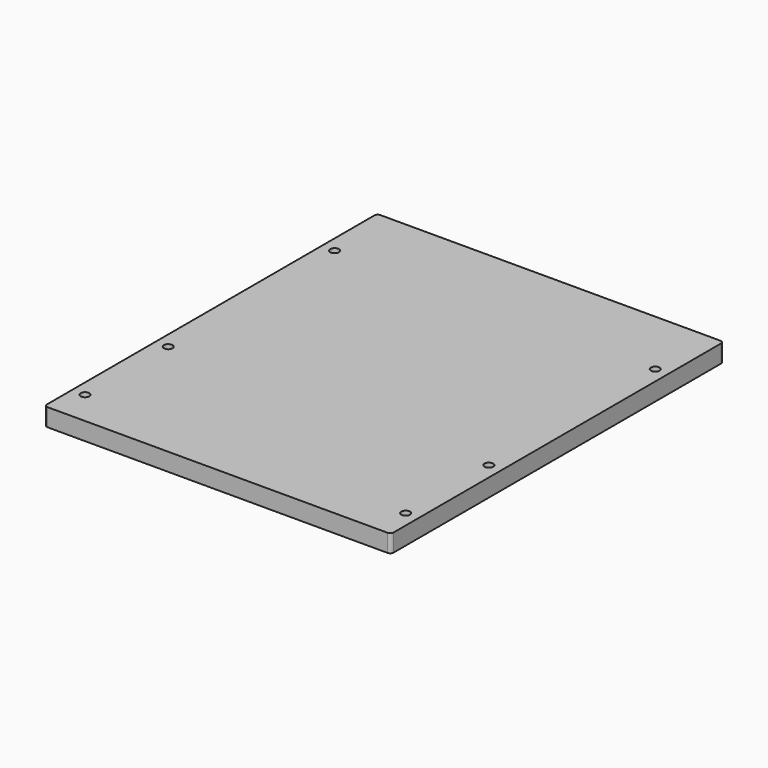
from build123d import *

# Parameters (mm, degrees)
SKETCH_W    = 254
SKETCH_H    = 304.8
SKETCH_R    = 3.175
PAD_DEPTH   = 12.999999
FILLET_R    = 2.54
FILLET001_R = 2.54
FILLET002_R = 2.54


with BuildPart() as part:
    # Sketch → Pad (new body)
    with BuildSketch(Plane.XY):
        with Locations((127, 152.4)):
            Rectangle(SKETCH_W, SKETCH_H)
        with Locations((9.525, 25.4)):
            Circle(SKETCH_R, mode=Mode.SUBTRACT)
        with Locations((9.525, 101.6)):
            Circle(SKETCH_R, mode=Mode.SUBTRACT)
        with Locations((9.525, 254)):
            Circle(SKETCH_R, mode=Mode.SUBTRACT)
        with Locations((244.475, 254)):
            Circle(SKETCH_R, mode=Mode.SUBTRACT)
        with Locations((244.475, 101.6)):
            Circle(SKETCH_R, mode=Mode.SUBTRACT)
        with Locations((244.475, 25.4)):
            Circle(SKETCH_R, mode=Mode.SUBTRACT)
    extrude(amount=PAD_DEPTH)

    # Fillet
    fillet_edges = [part.edges().sort_by_distance(p)[0] for p in [
        (0, 0, 6.5),
    ]]
    fillet(fillet_edges, radius=FILLET_R)

    # Fillet001
    fillet001_edges = [part.edges().sort_by_distance(p)[0] for p in [
        (254, 0, 6.5),
    ]]
    fillet(fillet001_edges, radius=FILLET001_R)

    # Fillet002
    fillet002_edges = [part.edges().sort_by_distance(p)[0] for p in [
        (0, 304.8, 6.5),
        (254, 304.8, 6.5),
    ]]
    fillet(fillet002_edges, radius=FILLET002_R)


solid = part.part
